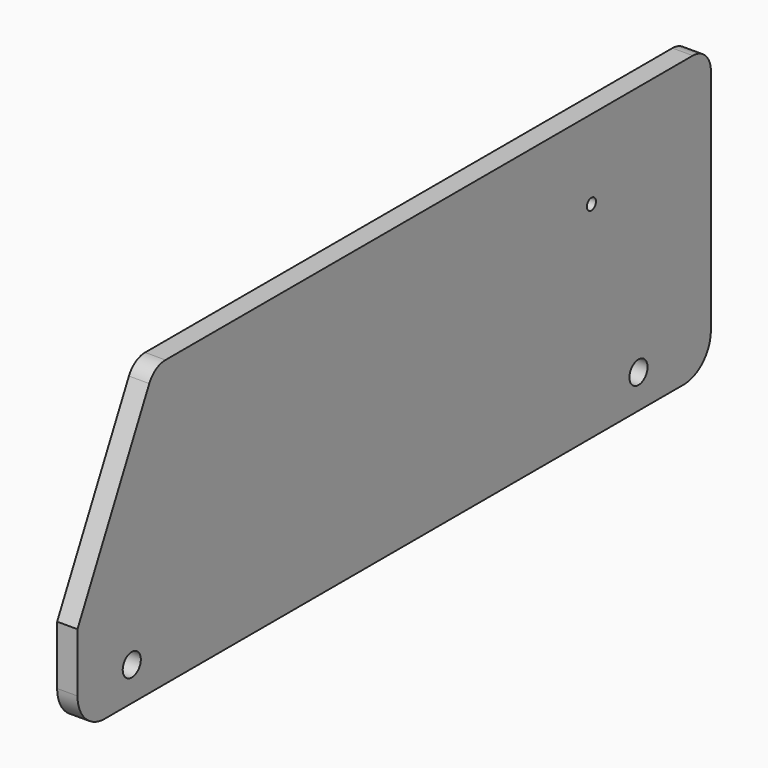
from build123d import *

# Parameters (mm, degrees)
F0_R     = 5
F0_R_2   = 2.5
F1_DEPTH = 9


with BuildPart() as f1:
    # F0 (on Right) → F1 (new body)
    with BuildSketch(Plane.YZ):
        with BuildLine():
            ThreePointArc((175, 91), (172.071068, 98.071068), (165, 101))
            Line((165, 101), (-126.388465, 101))
            ThreePointArc((-126.388465, 101), (-131.648722, 99.504686), (-135.335833, 95.465938))
            Line((-135.335833, 95.465938), (-175, 16))
            Line((-175, 16), (-175, 0))
            Line((-175, 0), (-175, -10))
            ThreePointArc((-175, -10), (-170.606602, -20.606602), (-160, -25))
            Line((-160, -25), (160, -25))
            ThreePointArc((160, -25), (170.606602, -20.606602), (175, -10))
            Line((175, -10), (175, 91))
        make_face()
        with Locations((-145, -10)):
            Circle(F0_R, mode=Mode.SUBTRACT)
        with Locations((135, -10)):
            Circle(F0_R, mode=Mode.SUBTRACT)
        with Locations((109, 66)):
            Circle(F0_R_2, mode=Mode.SUBTRACT)
    extrude(amount=F1_DEPTH)


solid = f1.part
